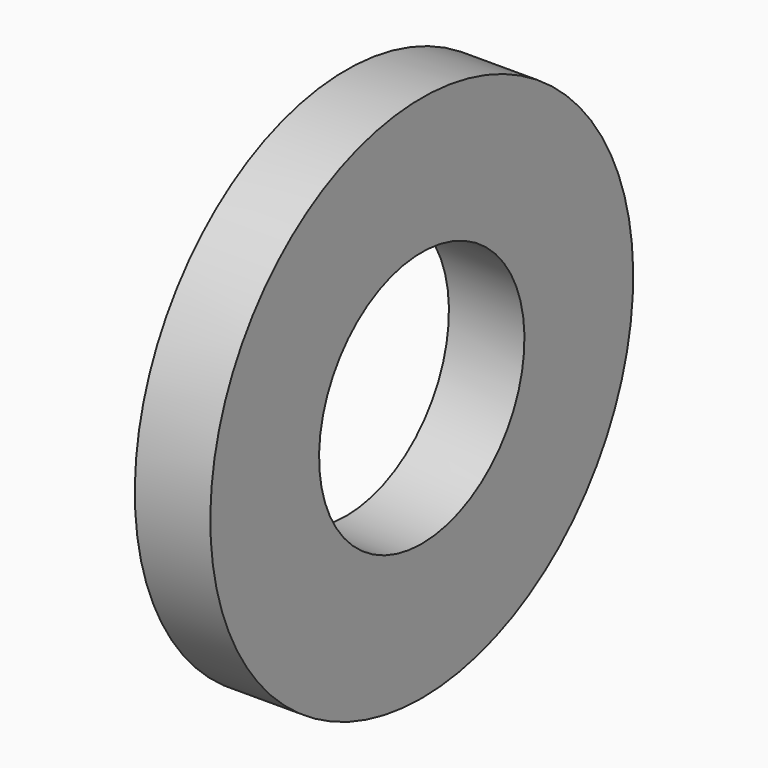
from build123d import *

# Parameters (mm, degrees)
CYLINDER1389_R     = 1.7
CYLINDER1389_DEPTH = 1
CYLINDER1387_R     = 3.5
CYLINDER1387_DEPTH = 1


with BuildPart() as cylinder1389:
    # Cylinder1389 → Cylinder1389 (new body)
    with BuildSketch(Plane(origin=(436, 67, 100), x_dir=(0, 0, -1), z_dir=(1, 0, 0))):
        Circle(CYLINDER1389_R)
    extrude(amount=CYLINDER1389_DEPTH)


with BuildPart() as bucket_right_half_short_spacer:
    # Cylinder1387 → Cylinder1387 (new body)
    with BuildSketch(Plane(origin=(436, 67, 100), x_dir=(0, 0, -1), z_dir=(1, 0, 0))):
        Circle(CYLINDER1387_R)
    extrude(amount=CYLINDER1387_DEPTH)

    # Cut014356: cut Cylinder1389
    add(cylinder1389.part, mode=Mode.SUBTRACT)


with BuildPart() as bucket_right_half_short_spacer_1:
    # Cut014356 placement: moved
    add(bucket_right_half_short_spacer.part.moved(Location((-0.5, 0, 0))))


solid = bucket_right_half_short_spacer_1.part
